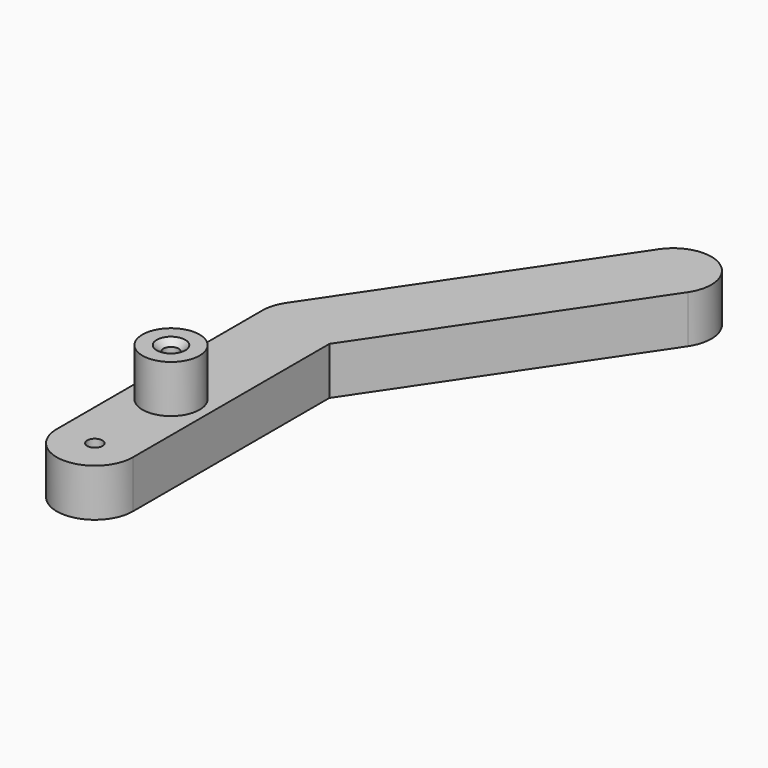
from build123d import *

# Parameters (mm, degrees)
F1_DEPTH       = 6.35
F2_R           = 3.81
F3_DEPTH       = 6.35
F5_D           = 2.032
F5_CSINK_D     = 3.81
F5_CSINK_ANGLE = 100
F7_D           = 2.032


with BuildPart() as f1:
    # F0 (on Top) → F1 (new body)
    with BuildSketch(Plane.XY):
        with BuildLine():
            ThreePointArc((-5.08, -26.9184786366), (-3.5921024484, -30.5105810851), (0, -31.9984786366))
            Line((0, -31.9984786366), (0, -26.9184786366))
            Line((0, -26.9184786366), (0, -21.8384786366))
            ThreePointArc((0, -21.8384786366), (-3.5921024484, -23.3263761882), (-5.08, -26.9184786366))
        make_face()
        with BuildLine():
            Line((0, -26.9184786366), (0, -31.9984786366))
            ThreePointArc((0, -31.9984786366), (3.5921024484, -30.5105810851), (5.08, -26.9184786366))
            ThreePointArc((5.08, -26.9184786366), (3.5921024484, -23.3263761882), (0, -21.8384786366))
            Line((0, -21.8384786366), (0, -26.9184786366))
        make_face()
        with BuildLine():
            ThreePointArc((5.08, -26.9184786366), (3.5921024484, -30.5105810851), (0, -31.9984786366))
            ThreePointArc((0, -31.9984786366), (-3.5921024484, -30.5105810851), (-5.08, -26.9184786366))
            Line((-5.08, -26.9184786366), (-5.08, -39.6184786366))
            ThreePointArc((-5.08, -39.6184786366), (0, -44.6984786366), (5.08, -39.6184786366))
            Line((5.08, -39.6184786366), (5.08, -26.9184786366))
        make_face()
        with BuildLine():
            ThreePointArc((0, -21.8384786366), (3.5921024484, -23.3263761882), (5.08, -26.9184786366))
            Line((5.08, -26.9184786366), (5.08, -6.8815904984))
            Line((5.08, -6.8815904984), (4.2115108686, -8.1691785863))
            ThreePointArc((4.2115108686, -8.1691785863), (2.384915539, -9.8138524083), (0, -10.4084786366))
            Line((0, -10.4084786366), (0, -21.8384786366))
        make_face()
        with BuildLine():
            Line((-5.08, -5.3284786366), (-5.08, -26.9184786366))
            ThreePointArc((-5.08, -26.9184786366), (-3.5921024484, -23.3263761882), (0, -21.8384786366))
            Line((0, -21.8384786366), (0, -10.4084786366))
            ThreePointArc((0, -10.4084786366), (-3.5921024484, -8.9205810851), (-5.08, -5.3284786366))
        make_face()
        with BuildLine():
            Line((5.08, -5.3284786366), (5.08, -6.8815904984))
            Line((5.08, -6.8815904984), (26.9371104656, 25.5229083624))
            ThreePointArc((26.9371104656, 25.5229083624), (25.5662995467, 32.5751191806), (18.5140887285, 31.2043082616))
            Line((18.5140887285, 31.2043082616), (-4.2115108686, -2.487778687))
            ThreePointArc((-4.2115108686, -2.487778687), (-0.9693096965, -0.3418125447), (2.8406999496, -1.116967768))
            ThreePointArc((2.8406999496, -1.116967768), (4.4853737717, -2.9435630977), (5.08, -5.3284786366))
        make_face()
        with BuildLine():
            Line((4.2115108686, -8.1691785863), (5.08, -6.8815904984))
            Line((5.08, -6.8815904984), (5.08, -5.3284786366))
            ThreePointArc((5.08, -5.3284786366), (4.4853737717, -2.9435630977), (2.8406999496, -1.116967768))
            Line((2.8406999496, -1.116967768), (0, -5.3284786366))
            Line((0, -5.3284786366), (0, -10.4084786366))
            ThreePointArc((0, -10.4084786366), (2.384915539, -9.8138524083), (4.2115108686, -8.1691785863))
        make_face()
        with BuildLine():
            ThreePointArc((-4.2115108686, -2.487778687), (-4.8580281603, -3.8432303766), (-5.08, -5.3284786366))
            ThreePointArc((-5.08, -5.3284786366), (-3.5921024484, -8.9205810851), (0, -10.4084786366))
            Line((0, -10.4084786366), (0, -5.3284786366))
            Line((0, -5.3284786366), (2.8406999496, -1.116967768))
            ThreePointArc((2.8406999496, -1.116967768), (-0.9693096965, -0.3418125447), (-4.2115108686, -2.487778687))
        make_face()
    extrude(amount=F1_DEPTH)

    # F2 (on face) → F3 (join)
    with BuildSketch(Plane.XY.offset(6.35)):
        with Locations((0, -26.9184786366)):
            Circle(F2_R)
    extrude(amount=F3_DEPTH)

    # F5 (through all)
    with Locations(Plane.XY.offset(12.7)):
        with Locations((0, -26.9184786366)):
            CounterSinkHole(F5_D / 2, F5_CSINK_D / 2, counter_sink_angle=F5_CSINK_ANGLE)

    # F7 (through all)
    with Locations(Plane.XY.offset(6.35)):
        with Locations((0, -39.6184786366)):
            Hole(F7_D / 2)


solid = f1.part
